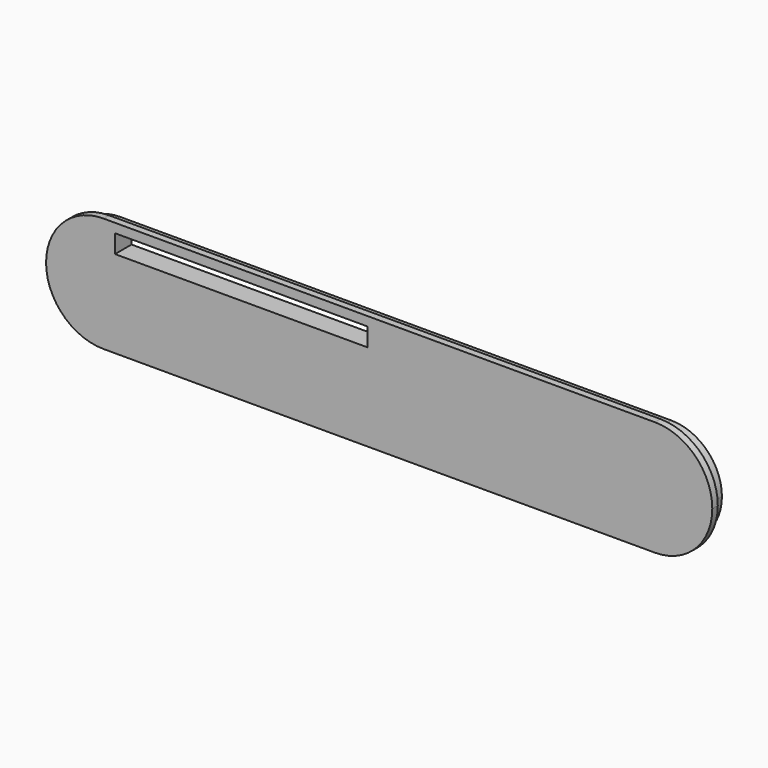
from build123d import *

# Parameters (mm, degrees)
F2_DEPTH = 1.905
F3_DEPTH = 3.81
F4_W     = 69.85
F4_H     = 5.08
F5_DEPTH = 5.716


with BuildPart() as f2:
    # F0 (on Front) → F2 (new body)
    with BuildSketch(Plane.XZ):
        with BuildLine():
            Line((-76.2, 15.875), (-76.2, 0))
            Line((-76.2, 0), (-60.325, 0))
            ThreePointArc((-60.325, 0), (-64.9746798487, 11.2253201513), (-76.2, 15.875))
        make_face()
        with BuildLine():
            Line((-60.325, 0), (-76.2, 0))
            Line((-76.2, 0), (-76.2, -15.875))
            ThreePointArc((-76.2, -15.875), (-64.9746798487, -11.2253201513), (-60.325, 0))
        make_face()
        with BuildLine():
            Line((-76.2, -15.875), (-76.2, 0))
            Line((-76.2, 0), (-76.2, 15.875))
            ThreePointArc((-76.2, 15.875), (-92.075, 0), (-76.2, -15.875))
        make_face()
        with BuildLine():
            ThreePointArc((-76.2, 15.875), (-64.9746798487, 11.2253201513), (-60.325, 0))
            Line((-60.325, 0), (60.325, 0))
            ThreePointArc((60.325, 0), (64.9746798487, 11.2253201513), (76.2, 15.875))
            Line((76.2, 15.875), (-76.2, 15.875))
        make_face()
        with BuildLine():
            Line((60.325, 0), (-60.325, 0))
            ThreePointArc((-60.325, 0), (-64.9746798487, -11.2253201513), (-76.2, -15.875))
            Line((-76.2, -15.875), (76.2, -15.875))
            ThreePointArc((76.2, -15.875), (64.9746798487, -11.2253201513), (60.325, 0))
        make_face()
        with BuildLine():
            ThreePointArc((76.2, 15.875), (64.9746798487, 11.2253201513), (60.325, 0))
            Line((60.325, 0), (76.2, 0))
            Line((76.2, 0), (76.2, 15.875))
        make_face()
        with BuildLine():
            Line((76.2, 0), (60.325, 0))
            ThreePointArc((60.325, 0), (64.9746798487, -11.2253201513), (76.2, -15.875))
            Line((76.2, -15.875), (76.2, 0))
        make_face()
        with BuildLine():
            Line((76.2, 0), (76.2, -15.875))
            ThreePointArc((76.2, -15.875), (87.4253201513, -11.2253201513), (92.075, 0))
            ThreePointArc((92.075, 0), (87.4253201513, 11.2253201513), (76.2, 15.875))
            Line((76.2, 15.875), (76.2, 0))
        make_face()
    extrude(amount=F2_DEPTH)

    # F1 (on Front) → F3 (join)
    with BuildSketch(Plane.XZ):
        with BuildLine():
            ThreePointArc((76.2, -13.97), (62.23, 0), (76.2, 13.97))
            Line((76.2, 13.97), (-76.2, 13.97))
            ThreePointArc((-76.2, 13.97), (-66.3217182668, 9.8782817332), (-62.23, 0))
            ThreePointArc((-62.23, 0), (-66.3217182668, -9.8782817332), (-76.2, -13.97))
            Line((-76.2, -13.97), (76.2, -13.97))
        make_face()
        with BuildLine():
            ThreePointArc((90.17, 0), (86.0782817332, 9.8782817332), (76.2, 13.97))
            Line((76.2, 13.97), (76.2, -13.97))
            ThreePointArc((76.2, -13.97), (86.0782817332, -9.8782817332), (90.17, 0))
        make_face()
        with BuildLine():
            Line((76.2, -13.97), (76.2, 13.97))
            ThreePointArc((76.2, 13.97), (62.23, 0), (76.2, -13.97))
        make_face()
        with BuildLine():
            ThreePointArc((-62.23, 0), (-66.3217182668, 9.8782817332), (-76.2, 13.97))
            Line((-76.2, 13.97), (-76.2, -13.97))
            ThreePointArc((-76.2, -13.97), (-66.3217182668, -9.8782817332), (-62.23, 0))
        make_face()
        with BuildLine():
            Line((-76.2, -13.97), (-76.2, 13.97))
            ThreePointArc((-76.2, 13.97), (-90.17, 0), (-76.2, -13.97))
        make_face()
    extrude(amount=-F3_DEPTH)

    # F4 (on face) → F5 (cut, through all)
    with BuildSketch(Plane.XZ.offset(1.905)):
        with Locations((-38.1, 10.795)):
            Rectangle(F4_W, F4_H)
    extrude(amount=-F5_DEPTH, mode=Mode.SUBTRACT)


solid = f2.part
